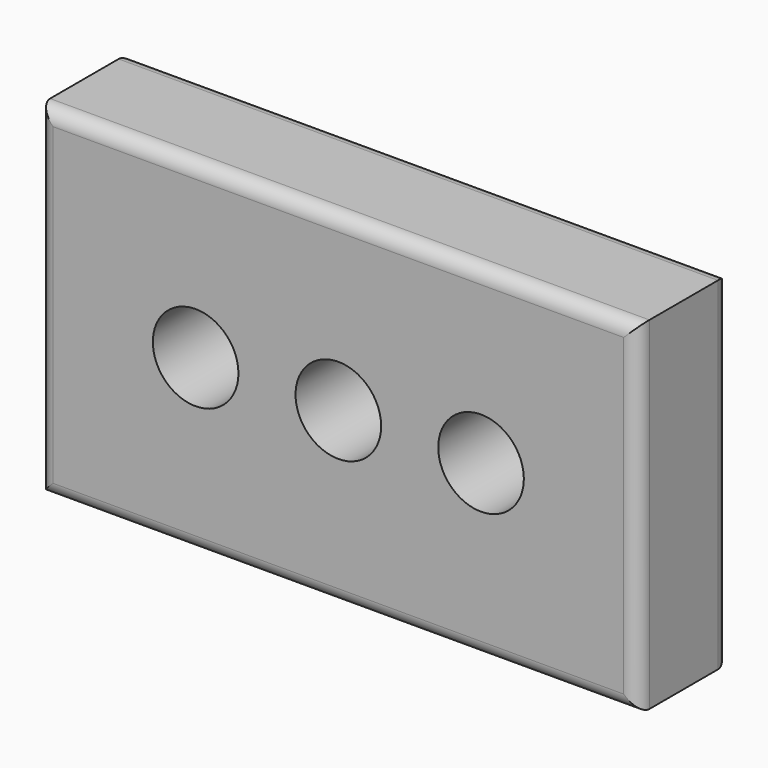
from build123d import *

# Parameters (mm, degrees)
F0_W     = 105
F0_H     = 60
F0_R     = 7.5
F1_DEPTH = 20
F2_R     = 2.5


with BuildPart() as f1:
    # F0 (on Front) → F1 (new body)
    with BuildSketch(Plane.XZ):
        Rectangle(F0_W, F0_H)
        with Locations((-25, 0)):
            Circle(F0_R, mode=Mode.SUBTRACT)
        Circle(F0_R, mode=Mode.SUBTRACT)
        with Locations((25, 0)):
            Circle(F0_R, mode=Mode.SUBTRACT)
    extrude(amount=F1_DEPTH)

    # F2
    f2_edges = [f1.edges().sort_by_distance(p)[0] for p in [
        (0, -20, -30),
        (-52.5, -20, 0),
        (0, -20, 30),
        (52.5, 0, 0),
        (0, 0, -30),
        (-52.5, 0, 0),
        (0, 0, 30),
        (52.5, -20, 0),
    ]]
    fillet(f2_edges, radius=F2_R)


solid = f1.part
